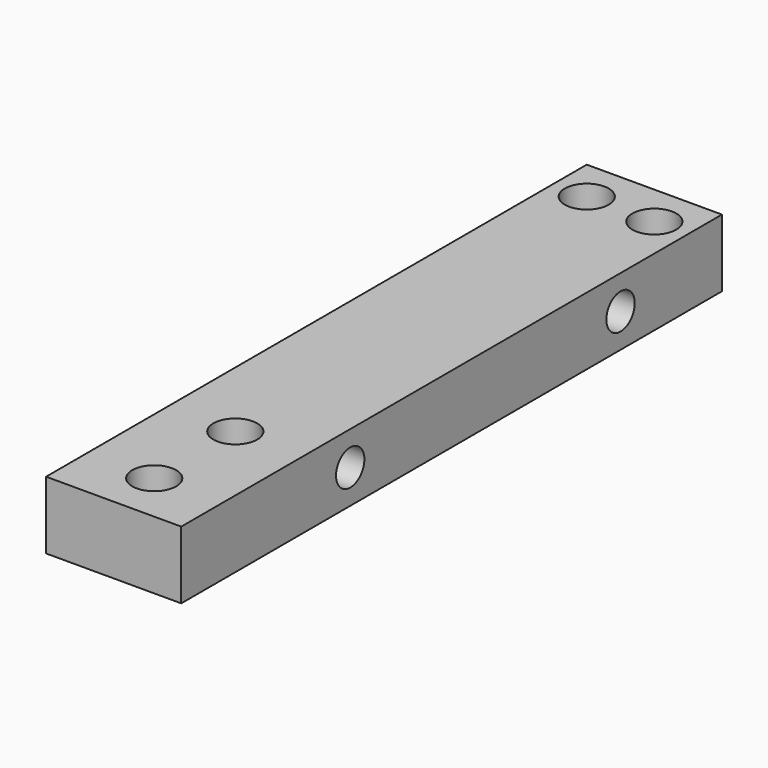
from build123d import *

# Parameters (mm, degrees)
F0_W          = 16
F0_H          = 8
F1_DEPTH      = 80
F2_R          = 2.6
F4_DEPTH      = 25
F4_DEPTH_BACK = 25
F5_D          = 4.2
F5_DEPTH      = 18.4
F5_TIP        = 1.2618073


with BuildPart() as f1:
    # F0 (on Front) → F1 (new body)
    with BuildSketch(Plane.XZ):
        Rectangle(F0_W, F0_H)
    extrude(amount=-F1_DEPTH)

    # F2 (on face) → F4 (cut, two sides)
    with BuildSketch(Plane.XY.offset(4)) as f4_sk:
        with Locations((0, 18)):
            Circle(F2_R)
        with Locations((0, 6)):
            Circle(F2_R)
        with Locations((4, 75)):
            Circle(F2_R)
        with Locations((-4, 75)):
            Circle(F2_R)
    extrude(amount=-F4_DEPTH, mode=Mode.SUBTRACT)
    extrude(f4_sk.sketch, amount=F4_DEPTH_BACK, mode=Mode.SUBTRACT)

    # F5
    with Locations(Plane(origin=(-8, 0, 0), x_dir=(0, -1, 0), z_dir=(-1, 0, 0))):
        with Locations((-65, 0), (-25, 0)):
            Hole(F5_D / 2, depth=F5_DEPTH)
            with Locations((0, 0, -(F5_DEPTH + F5_TIP / 2))):  # 118° drill point
                Cone(0, F5_D / 2, F5_TIP, mode=Mode.SUBTRACT)


solid = f1.part
